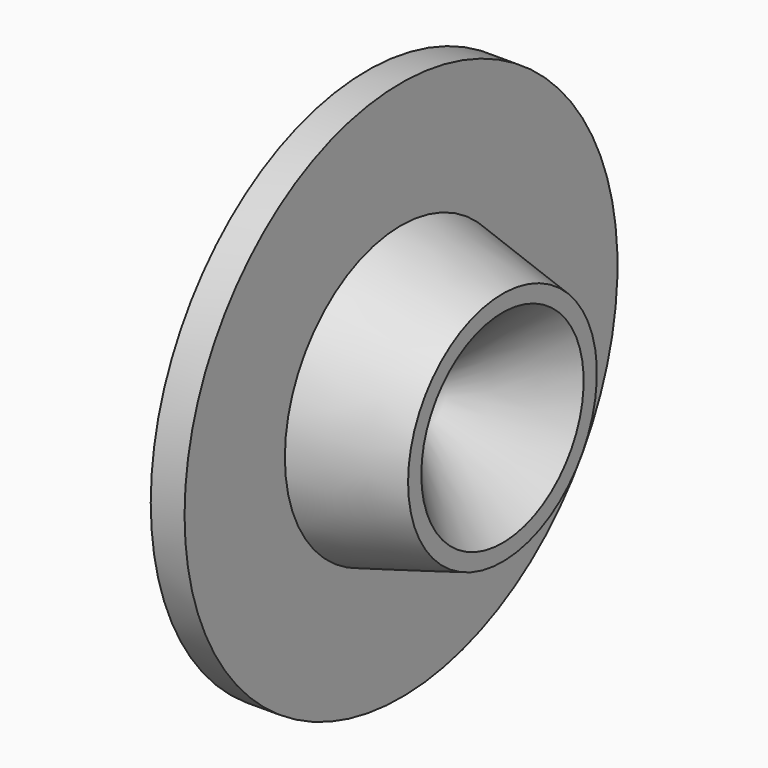
from build123d import *


with BuildPart() as f1:
    # F0 (on Top) → F1 (revolve)
    with BuildSketch(Plane.XY):
        Polygon((4, 0), (0, 0), (0, -32), (4, -32), (4, -22.828427), (4, -17.171573), (16, -13.956183), (16, -12), align=None)
        Polygon((4, -13.030468), (4, -5.656854), (9.815386, -11.47224), align=None, mode=Mode.SUBTRACT)
    revolve(axis=Axis((2, 0, 0), (-1, 0, 0)))


solid = f1.part
